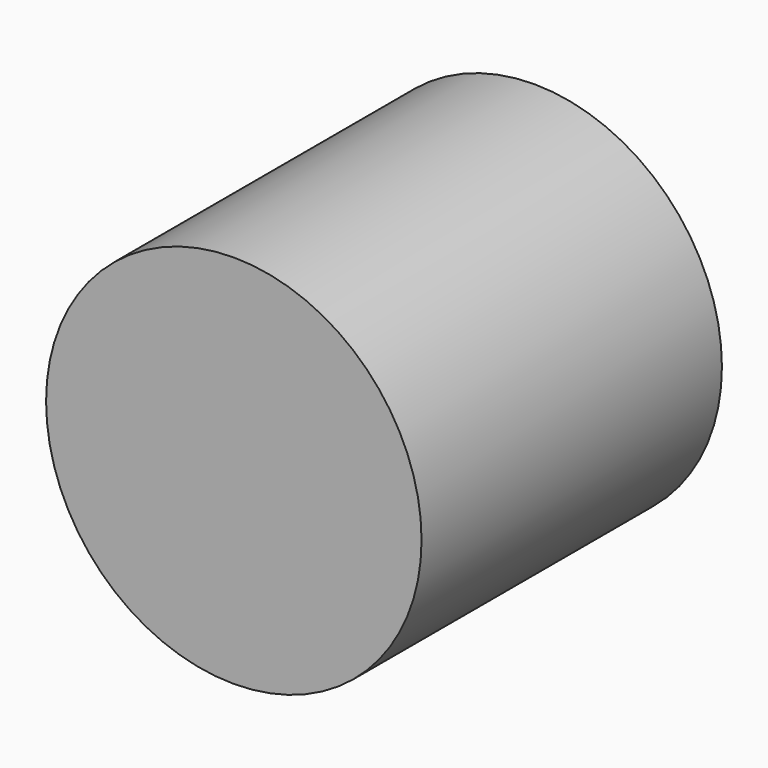
from build123d import *

# Parameters (mm, degrees)
F0_R     = 20
F1_DEPTH = 40
F3_DEPTH = 15


with BuildPart() as f1:
    # F0 (on Front) → F1 (new body)
    with BuildSketch(Plane.XZ):
        Circle(F0_R)
    extrude(amount=F1_DEPTH)

    # F2 (on Front) → F3 (cut)
    with BuildSketch(Plane.XZ):
        Polygon((3.95189, -14), (14.1003, -3.577563), (10.148411, 10.422437), (-3.95189, 14), (-14.1003, 3.577563), (-10.148411, -10.422437), align=None)
    extrude(amount=F3_DEPTH, mode=Mode.SUBTRACT)


solid = f1.part
